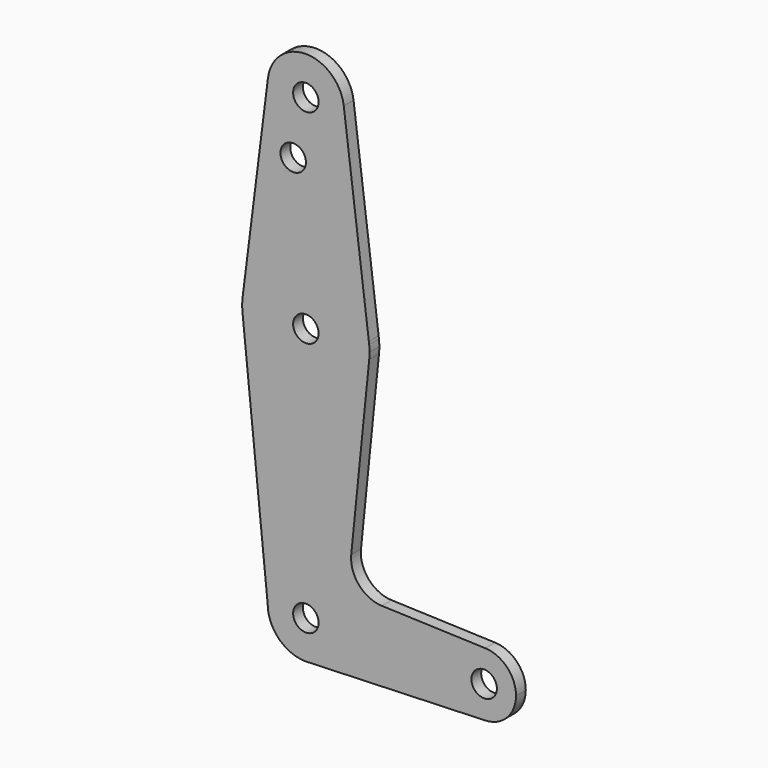
from build123d import *

# Parameters (mm, degrees)
F0_R     = 3.175
F1_DEPTH = 3.048


with BuildPart() as f1:
    # F0 (on Front) → F1 (new body)
    with BuildSketch(Plane.XZ):
        with BuildLine():
            ThreePointArc((-9.450375, 115.489972), (-0.596155, 104.793675), (9.525, 114.3))
            ThreePointArc((9.525, 114.3), (9.506325, 114.896155), (9.450375, 115.489972))
            ThreePointArc((9.450375, 115.489972), (0, 123.825), (-9.450375, 115.489972))
        make_face()
        with Locations((0, 114.3)):
            Circle(F0_R, mode=Mode.SUBTRACT)
        with BuildLine():
            ThreePointArc((9.450375, 115.489972), (9.506325, 114.896155), (9.525, 114.3))
            ThreePointArc((9.525, 114.3), (-0.596155, 104.793675), (-9.450375, 115.489972))
            Line((-9.450375, 115.489972), (-15.705627, 65.812767))
            ThreePointArc((-15.705627, 65.812767), (0, 79.375), (15.705627, 65.812767))
            Line((15.705627, 65.812767), (9.450375, 115.489972))
        make_face()
        with Locations((-3.162903, 100.0252)):
            Circle(F0_R, mode=Mode.SUBTRACT)
        with BuildLine():
            Line((15.788712, 65.152936), (15.705627, 65.812767))
            ThreePointArc((15.705627, 65.812767), (0, 79.375), (-15.705627, 65.812767))
            Line((-15.705627, 65.812767), (-15.788712, 65.152936))
            ThreePointArc((-15.788712, 65.152936), (-15.874977, 63.526799), (-15.794203, 61.90038))
            ThreePointArc((-15.794203, 61.90038), (0, 47.625), (15.794203, 61.90038))
            ThreePointArc((15.794203, 61.90038), (15.854788, 62.699171), (15.875, 63.5))
            ThreePointArc((15.875, 63.5), (15.853413, 64.327593), (15.788712, 65.152936))
        make_face()
        with Locations((0, 63.5)):
            Circle(F0_R, mode=Mode.SUBTRACT)
        with BuildLine():
            ThreePointArc((15.788712, 65.152936), (15.750625, 65.483287), (15.705627, 65.812767))
            Line((15.705627, 65.812767), (15.788712, 65.152936))
        make_face()
        with BuildLine():
            Line((-15.788712, 65.152936), (-15.705627, 65.812767))
            ThreePointArc((-15.705627, 65.812767), (-15.750625, 65.483287), (-15.788712, 65.152936))
        make_face()
        with BuildLine():
            ThreePointArc((15.794203, 61.90038), (0, 47.625), (-15.794203, 61.90038))
            Line((-15.794203, 61.90038), (-9.525, 0))
            ThreePointArc((-9.525, 0), (0, 9.525), (9.525, 0))
            ThreePointArc((9.525, 0), (6.970557, -6.491299), (0.677344, -9.500886))
            Line((0.677344, -9.500886), (44.732405, -7.932475))
            ThreePointArc((44.732405, -7.932475), (36.5125, 0), (44.732405, 7.932475))
            Line((44.732405, 7.932475), (18.934103, 8.850924))
            ThreePointArc((18.934103, 8.850924), (13.224974, 11.57098), (11.307223, 17.59718))
            Line((11.307223, 17.59718), (15.794203, 61.90038))
        make_face()
        with BuildLine():
            ThreePointArc((9.525, 0), (0, 9.525), (-9.525, 0))
            ThreePointArc((-9.525, 0), (-6.735192, -6.735192), (0, -9.525))
            Line((0, -9.525), (0.677344, -9.500886))
            ThreePointArc((0.677344, -9.500886), (6.970557, -6.491299), (9.525, 0))
        make_face()
        Circle(F0_R, mode=Mode.SUBTRACT)
        with BuildLine():
            Line((0.677344, -9.500886), (0, -9.525))
            ThreePointArc((0, -9.525), (0.338886, -9.51897), (0.677344, -9.500886))
        make_face()
        with BuildLine():
            ThreePointArc((52.3875, 0), (50.161633, 5.51191), (44.732405, 7.932475))
            ThreePointArc((44.732405, 7.932475), (36.5125, 0), (44.732405, -7.932475))
            ThreePointArc((44.732405, -7.932475), (50.161633, -5.51191), (52.3875, 0))
        make_face()
        with Locations((44.45, 0)):
            Circle(F0_R, mode=Mode.SUBTRACT)
    extrude(amount=F1_DEPTH)


solid = f1.part
